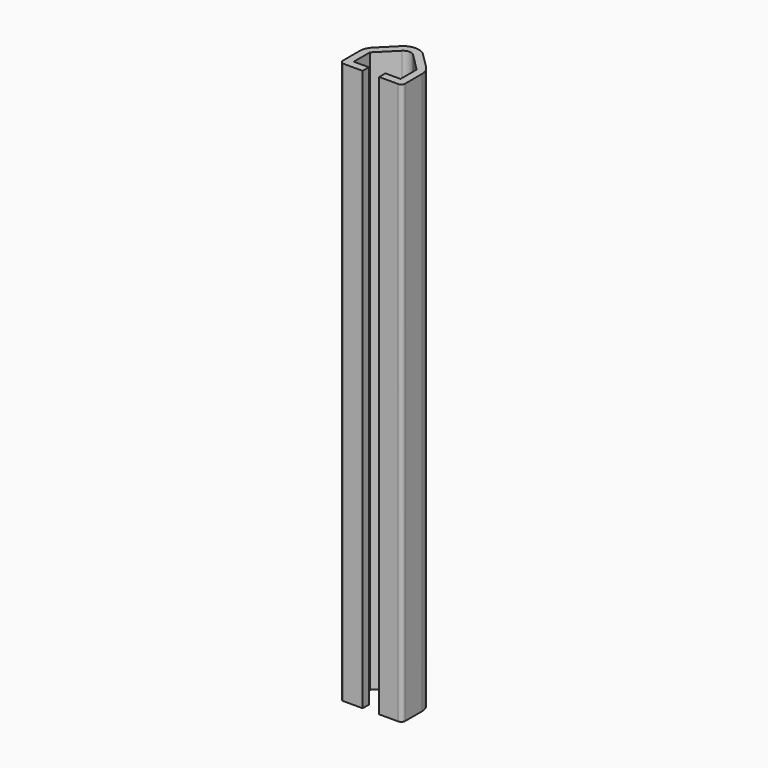
from build123d import *

# Parameters (mm, degrees)
F1_DEPTH = 228.6


with BuildPart() as f1:
    # F0 (on Top) → F1 (new body)
    with BuildSketch(Plane.XY):
        with BuildLine():
            ThreePointArc((-12.7, -11.1125), (-12.235032, -12.235032), (-11.1125, -12.7))
            Line((-11.1125, -12.7), (-3.3655, -12.7))
            Line((-3.3655, -12.7), (-3.3655, -9.525))
            Line((-3.3655, -9.525), (-9.525, -9.525))
            Line((-9.525, -9.525), (-9.525, -1.315128))
            Line((-9.525, -1.315128), (-2.245064, 5.964808))
            ThreePointArc((-2.245064, 5.964808), (0, 6.894744), (2.245064, 5.964808))
            Line((2.245064, 5.964808), (9.525, -1.315128))
            Line((9.525, -1.315128), (9.525, -9.525))
            Line((9.525, -9.525), (3.3655, -9.525))
            Line((3.3655, -9.525), (3.3655, -12.7))
            Line((3.3655, -12.7), (11.1125, -12.7))
            ThreePointArc((11.1125, -12.7), (12.235032, -12.235032), (12.7, -11.1125))
            Line((12.7, -11.1125), (12.7, -2.630256))
            ThreePointArc((12.7, -2.630256), (12.216635, -0.200216), (10.840128, 1.859872))
            Line((10.840128, 1.859872), (4.490128, 8.209872))
            ThreePointArc((4.490128, 8.209872), (0, 10.069744), (-4.490128, 8.209872))
            Line((-4.490128, 8.209872), (-10.840128, 1.859872))
            ThreePointArc((-10.840128, 1.859872), (-12.216635, -0.200216), (-12.7, -2.630256))
            Line((-12.7, -2.630256), (-12.7, -11.1125))
        make_face()
    extrude(amount=F1_DEPTH)


solid = f1.part
